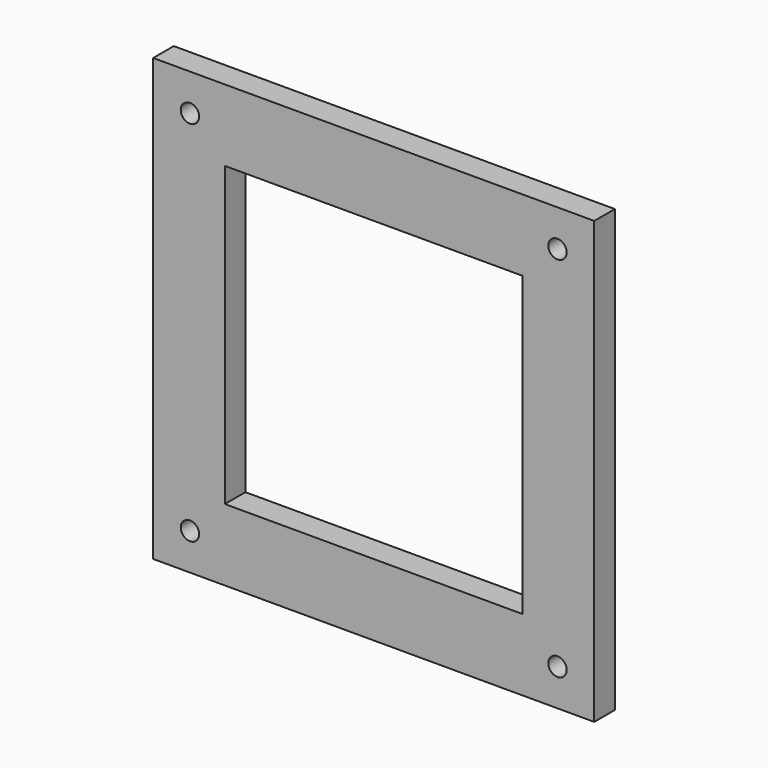
from build123d import *

# Parameters (mm, degrees)
F0_W     = 60
F0_H     = 60
F0_R     = 1.25
F0_W_2   = 40.5
F0_H_2   = 40.5
F1_DEPTH = 3.5


with BuildPart() as f1:
    # F0 (on Front) → F1 (new body)
    with BuildSketch(Plane.XZ):
        Rectangle(F0_W, F0_H)
        with Locations((-25, -25)):
            Circle(F0_R, mode=Mode.SUBTRACT)
        with Locations((25, -25)):
            Circle(F0_R, mode=Mode.SUBTRACT)
        with Locations((-25, 25)):
            Circle(F0_R, mode=Mode.SUBTRACT)
        Rectangle(F0_W_2, F0_H_2, mode=Mode.SUBTRACT)
        with Locations((25, 25)):
            Circle(F0_R, mode=Mode.SUBTRACT)
    extrude(amount=F1_DEPTH)


solid = f1.part
